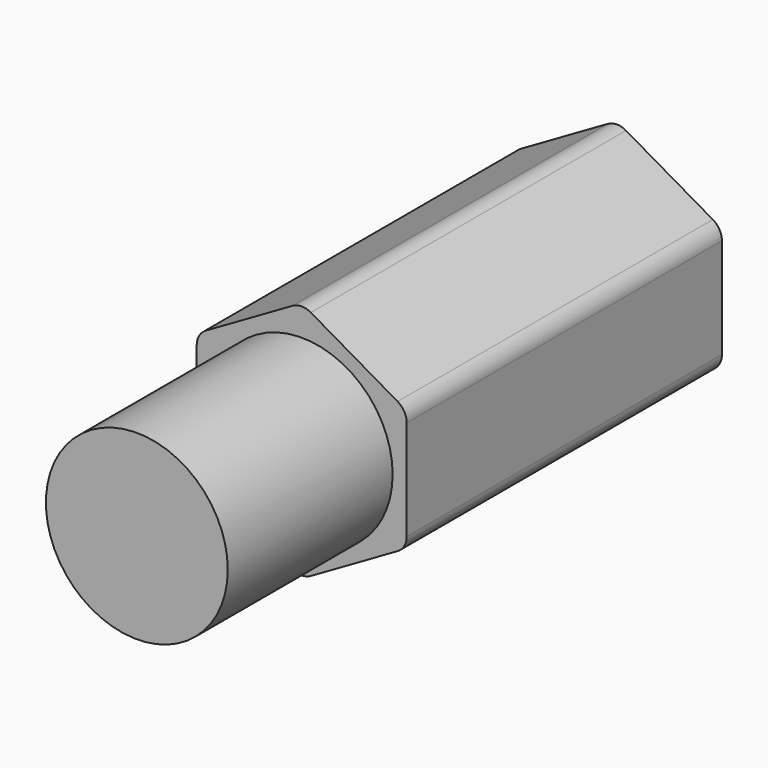
from build123d import *

# Parameters (mm, degrees)
PRISM003_DEPTH    = 6.5
FILLET020_R       = 0.3
CYLINDER016_R     = 1.5
CYLINDER016_DEPTH = 3.4
CYLINDER017_R     = 1
CYLINDER017_DEPTH = 6.5


with BuildPart() as part:
    # Prism003 → Prism003 (join)
    with BuildSketch(Plane(origin=(12.5, 25.5, 6.3), x_dir=(0, 0, -1), z_dir=(0, -1, 0))):
        Polygon((2, 0), (1, 1.732051), (-1, 1.732051), (-2, 0), (-1, -1.732051), (1, -1.732051), align=None)
    extrude(amount=PRISM003_DEPTH)

    # Fillet020
    fillet020_edges = [part.edges().sort_by_distance(p)[0] for p in [
        (12.5, 22.25, 8.3),
        (14.232051, 22.25, 7.3),
        (10.767949, 22.25, 7.3),
        (14.232051, 22.25, 5.3),
        (12.5, 22.25, 4.3),
        (10.767949, 22.25, 5.3),
    ]]
    fillet(fillet020_edges, radius=FILLET020_R)

    # Cylinder016 → Cylinder016 (join)
    with BuildSketch(Plane(origin=(12.5, 19, 6.3), x_dir=(1, 0, 0), z_dir=(0, -1, 0))):
        Circle(CYLINDER016_R)
    extrude(amount=CYLINDER016_DEPTH)

    # Cylinder017 → Cylinder017 (cut)
    with BuildSketch(Plane(origin=(12.5, 26, 6.3), x_dir=(1, 0, 0), z_dir=(0, -1, 0))):
        Circle(CYLINDER017_R)
    extrude(amount=CYLINDER017_DEPTH, mode=Mode.SUBTRACT)


with BuildPart() as part_1:
    # Body009 placement: moved
    add(part.part.moved(Location((-25, 0, 15.85))))


solid = part_1.part
